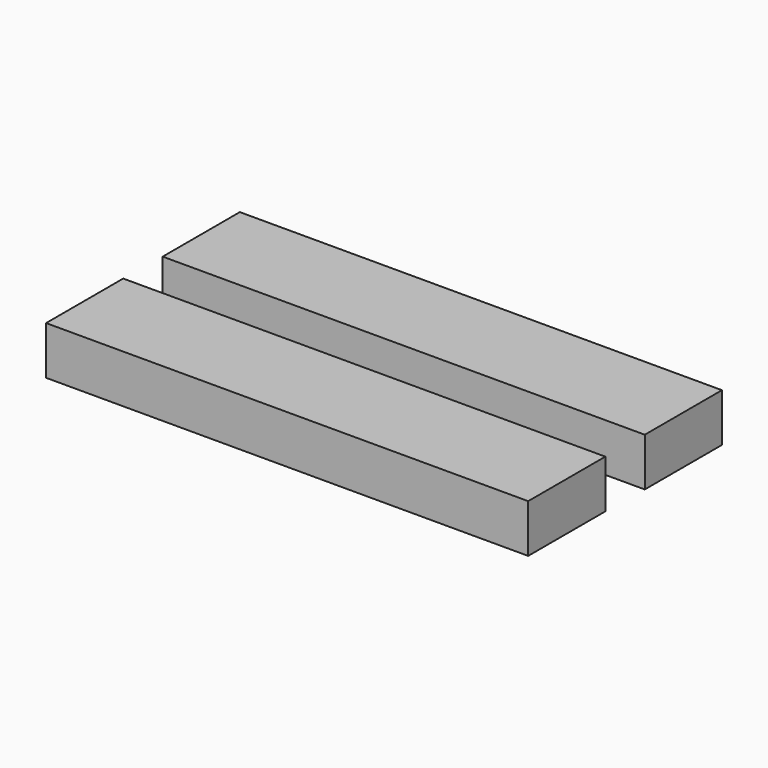
from build123d import *

# Parameters (mm, degrees)
F0_W     = 50
F0_H     = 10
F1_DEPTH = 5


with BuildPart() as f1:
    # F0 (on Top) → F1 (new body)
    with BuildSketch(Plane.XY):
        Rectangle(F0_W, F0_H)
        with Locations((0.093748, 14.999707)):
            Rectangle(F0_W, F0_H)
    extrude(amount=F1_DEPTH)


solid = f1.part
